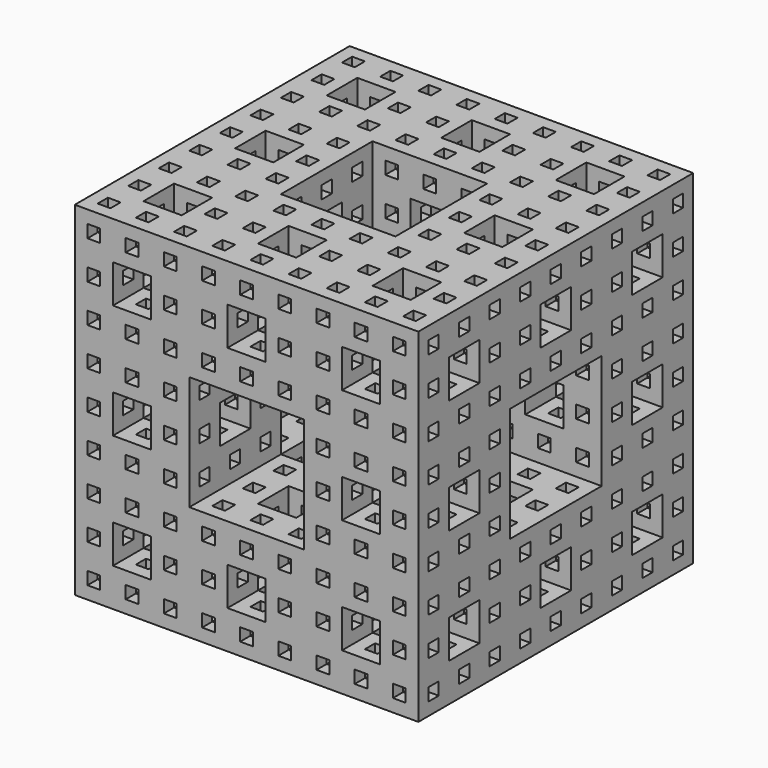
from build123d import *

# Parameters (mm, degrees)
F0_W      = 202.5
F0_H      = 202.5
F1_DEPTH  = 405
F2_W      = 135
F2_H      = 135
F3_DEPTH  = 1000
F4_W      = 45
F4_H      = 45
F5_DEPTH  = 1000
F6_W      = 15
F6_H      = 15
F7_DEPTH  = 1000
F8_W      = 135
F8_H      = 135
F9_DEPTH  = 1000
F10_W     = 45
F10_H     = 45
F11_DEPTH = 1000
F12_W     = 15
F12_H     = 15
F13_DEPTH = 1000
F15_W     = 135
F15_H     = 135
F16_DEPTH = 1000
F17_W     = 45
F17_H     = 45
F18_DEPTH = 1000
F19_W     = 15
F19_H     = 15
F20_DEPTH = 1000


with BuildPart() as f1:
    # F0 (on Top) → F1 (new body)
    with BuildSketch(Plane.XY):
        with Locations((-101.25, 0)):
            Rectangle(F0_W, F0_H)
    extrude(amount=F1_DEPTH)

    # F2 (on face) → F3 (cut)
    with BuildSketch(Plane(origin=(-202.5, 0, 0), x_dir=(0, -1, 0), z_dir=(-1, 0, 0))):
        with Locations((101.25, 202.5)):
            Rectangle(F2_W, F2_H)
    extrude(amount=-F3_DEPTH, mode=Mode.SUBTRACT)

    # F4 (on face) → F5 (cut)
    with BuildSketch(Plane(origin=(-202.5, 0, 0), x_dir=(0, -1, 0), z_dir=(-1, 0, 0))):
        with Locations((-33.75, 337.5)):
            Rectangle(F4_W, F4_H)
        with Locations((101.25, 337.5)):
            Rectangle(F4_W, F4_H)
        with Locations((-33.75, 202.5)):
            Rectangle(F4_W, F4_H)
        with Locations((-33.75, 67.5)):
            Rectangle(F4_W, F4_H)
        with Locations((101.25, 67.5)):
            Rectangle(F4_W, F4_H)
    extrude(amount=-F5_DEPTH, mode=Mode.SUBTRACT)

    # F6 (on face) → F7 (cut)
    with BuildSketch(Plane(origin=(-202.5, 0, 0), x_dir=(0, -1, 0), z_dir=(-1, 0, 0))):
        with Locations((-78.75, 382.5)):
            Rectangle(F6_W, F6_H)
        with Locations((-33.75, 382.5)):
            Rectangle(F6_W, F6_H)
        with Locations((11.25, 382.5)):
            Rectangle(F6_W, F6_H)
        with Locations((56.25, 382.5)):
            Rectangle(F6_W, F6_H)
        with Locations((101.25, 382.5)):
            Rectangle(F6_W, F6_H)
        with Locations((-78.75, 337.5)):
            Rectangle(F6_W, F6_H)
        with Locations((-78.75, 292.5)):
            Rectangle(F6_W, F6_H)
        with Locations((-78.75, 247.5)):
            Rectangle(F6_W, F6_H)
        with Locations((-78.75, 202.5)):
            Rectangle(F6_W, F6_H)
        with Locations((-78.75, 157.5)):
            Rectangle(F6_W, F6_H)
        with Locations((-78.75, 112.5)):
            Rectangle(F6_W, F6_H)
        with Locations((-78.75, 67.5)):
            Rectangle(F6_W, F6_H)
        with Locations((-78.75, 22.5)):
            Rectangle(F6_W, F6_H)
        with Locations((-33.75, 22.5)):
            Rectangle(F6_W, F6_H)
        with Locations((11.25, 22.5)):
            Rectangle(F6_W, F6_H)
        with Locations((56.25, 22.5)):
            Rectangle(F6_W, F6_H)
        with Locations((101.25, 22.5)):
            Rectangle(F6_W, F6_H)
        with Locations((-33.75, 292.5)):
            Rectangle(F6_W, F6_H)
        with Locations((-33.75, 247.5)):
            Rectangle(F6_W, F6_H)
        with Locations((11.25, 337.5)):
            Rectangle(F6_W, F6_H)
        with Locations((56.25, 337.5)):
            Rectangle(F6_W, F6_H)
        with Locations((-33.75, 157.5)):
            Rectangle(F6_W, F6_H)
        with Locations((-33.75, 112.5)):
            Rectangle(F6_W, F6_H)
        with Locations((11.25, 67.5)):
            Rectangle(F6_W, F6_H)
        with Locations((56.25, 67.5)):
            Rectangle(F6_W, F6_H)
        with Locations((11.25, 292.5)):
            Rectangle(F6_W, F6_H)
        with Locations((56.25, 292.5)):
            Rectangle(F6_W, F6_H)
        with Locations((11.25, 247.5)):
            Rectangle(F6_W, F6_H)
        with Locations((11.25, 202.5)):
            Rectangle(F6_W, F6_H)
        with Locations((11.25, 157.5)):
            Rectangle(F6_W, F6_H)
        with Locations((11.25, 112.5)):
            Rectangle(F6_W, F6_H)
        with Locations((56.25, 112.5)):
            Rectangle(F6_W, F6_H)
        with Locations((101.25, 112.5)):
            Rectangle(F6_W, F6_H)
        with Locations((101.25, 292.5)):
            Rectangle(F6_W, F6_H)
    extrude(amount=-F7_DEPTH, mode=Mode.SUBTRACT)

    # F8 (on face) → F9 (cut)
    with BuildSketch(Plane(origin=(0, 101.25, 0), x_dir=(-1, 0, 0), z_dir=(0, 1, 0))):
        with Locations((0, 202.5)):
            Rectangle(F8_W, F8_H)
    extrude(amount=-F9_DEPTH, mode=Mode.SUBTRACT)

    # F10 (on face) → F11 (cut)
    with BuildSketch(Plane(origin=(0, 101.25, 0), x_dir=(-1, 0, 0), z_dir=(0, 1, 0))):
        with Locations((0, 337.5)):
            Rectangle(F10_W, F10_H)
        with Locations((135, 337.5)):
            Rectangle(F10_W, F10_H)
        with Locations((135, 202.5)):
            Rectangle(F10_W, F10_H)
        with Locations((135, 67.5)):
            Rectangle(F10_W, F10_H)
        with Locations((0, 67.5)):
            Rectangle(F10_W, F10_H)
    extrude(amount=-F11_DEPTH, mode=Mode.SUBTRACT)

    # F12 (on face) → F13 (cut)
    with BuildSketch(Plane(origin=(0, 101.25, 0), x_dir=(-1, 0, 0), z_dir=(0, 1, 0))):
        with Locations((0, 382.5)):
            Rectangle(F12_W, F12_H)
        with Locations((45, 382.5)):
            Rectangle(F12_W, F12_H)
        with Locations((90, 382.5)):
            Rectangle(F12_W, F12_H)
        with Locations((135, 382.5)):
            Rectangle(F12_W, F12_H)
        with Locations((180, 382.5)):
            Rectangle(F12_W, F12_H)
        with Locations((180, 337.5)):
            Rectangle(F12_W, F12_H)
        with Locations((180, 202.5)):
            Rectangle(F12_W, F12_H)
        with Locations((180, 67.5)):
            Rectangle(F12_W, F12_H)
        with Locations((180, 22.5)):
            Rectangle(F12_W, F12_H)
        with Locations((180, 292.5)):
            Rectangle(F12_W, F12_H)
        with Locations((180, 247.5)):
            Rectangle(F12_W, F12_H)
        with Locations((180, 157.5)):
            Rectangle(F12_W, F12_H)
        with Locations((180, 112.5)):
            Rectangle(F12_W, F12_H)
        with Locations((135, 292.5)):
            Rectangle(F12_W, F12_H)
        with Locations((135, 247.5)):
            Rectangle(F12_W, F12_H)
        with Locations((135, 157.5)):
            Rectangle(F12_W, F12_H)
        with Locations((135, 112.5)):
            Rectangle(F12_W, F12_H)
        with Locations((135, 22.5)):
            Rectangle(F12_W, F12_H)
        with Locations((90, 337.5)):
            Rectangle(F12_W, F12_H)
        with Locations((45, 337.5)):
            Rectangle(F12_W, F12_H)
        with Locations((90, 292.5)):
            Rectangle(F12_W, F12_H)
        with Locations((45, 292.5)):
            Rectangle(F12_W, F12_H)
        with Locations((0, 292.5)):
            Rectangle(F12_W, F12_H)
        with Locations((90, 247.5)):
            Rectangle(F12_W, F12_H)
        with Locations((90, 202.5)):
            Rectangle(F12_W, F12_H)
        with Locations((90, 157.5)):
            Rectangle(F12_W, F12_H)
        with Locations((90, 112.5)):
            Rectangle(F12_W, F12_H)
        with Locations((90, 67.5)):
            Rectangle(F12_W, F12_H)
        with Locations((90, 22.5)):
            Rectangle(F12_W, F12_H)
        with Locations((0, 112.5)):
            Rectangle(F12_W, F12_H)
        with Locations((45, 112.5)):
            Rectangle(F12_W, F12_H)
        with Locations((45, 67.5)):
            Rectangle(F12_W, F12_H)
        with Locations((0, 22.5)):
            Rectangle(F12_W, F12_H)
        with Locations((45, 22.5)):
            Rectangle(F12_W, F12_H)
    extrude(amount=-F13_DEPTH, mode=Mode.SUBTRACT)

    # F14: F1 across face


with BuildPart() as f1_1:
    add(f1.part)
    add(f1.part.mirror(Plane(origin=(0, 0, 127.5), x_dir=(0, 1, 0), z_dir=(1, 0, 0))))

    # F15 (on face) → F16 (cut)
    with BuildSketch(Plane.XY.offset(405)):
        with Locations((0, -101.25)):
            Rectangle(F15_W, F15_H)
    extrude(amount=-F16_DEPTH, mode=Mode.SUBTRACT)

    # F17 (on face) → F18 (cut)
    with BuildSketch(Plane.XY.offset(405)):
        with Locations((-135, -101.25)):
            Rectangle(F17_W, F17_H)
        with Locations((135, -101.25)):
            Rectangle(F17_W, F17_H)
        with Locations((0, 33.75)):
            Rectangle(F17_W, F17_H)
        with Locations((-135, 33.75)):
            Rectangle(F17_W, F17_H)
        with Locations((135, 33.75)):
            Rectangle(F17_W, F17_H)
    extrude(amount=-F18_DEPTH, mode=Mode.SUBTRACT)

    # F19 (on face) → F20 (cut)
    with BuildSketch(Plane.XY.offset(405)):
        with Locations((-180, -101.25)):
            Rectangle(F19_W, F19_H)
        with Locations((-180, 33.75)):
            Rectangle(F19_W, F19_H)
        with Locations((-180, 78.75)):
            Rectangle(F19_W, F19_H)
        with Locations((-180, -11.25)):
            Rectangle(F19_W, F19_H)
        with Locations((-180, -56.25)):
            Rectangle(F19_W, F19_H)
        with Locations((180, 78.75)):
            Rectangle(F19_W, F19_H)
        with Locations((180, 33.75)):
            Rectangle(F19_W, F19_H)
        with Locations((180, -11.25)):
            Rectangle(F19_W, F19_H)
        with Locations((180, -56.25)):
            Rectangle(F19_W, F19_H)
        with Locations((180, -101.25)):
            Rectangle(F19_W, F19_H)
        with Locations((135, 78.75)):
            Rectangle(F19_W, F19_H)
        with Locations((90, 78.75)):
            Rectangle(F19_W, F19_H)
        with Locations((45, 78.75)):
            Rectangle(F19_W, F19_H)
        with Locations((0, 78.75)):
            Rectangle(F19_W, F19_H)
        with Locations((-45, 78.75)):
            Rectangle(F19_W, F19_H)
        with Locations((-90, 78.75)):
            Rectangle(F19_W, F19_H)
        with Locations((-135, 78.75)):
            Rectangle(F19_W, F19_H)
        with Locations((-90, 33.75)):
            Rectangle(F19_W, F19_H)
        with Locations((-45, 33.75)):
            Rectangle(F19_W, F19_H)
        with Locations((45, 33.75)):
            Rectangle(F19_W, F19_H)
        with Locations((90, 33.75)):
            Rectangle(F19_W, F19_H)
        with Locations((-135, -11.25)):
            Rectangle(F19_W, F19_H)
        with Locations((-90, -11.25)):
            Rectangle(F19_W, F19_H)
        with Locations((-45, -11.25)):
            Rectangle(F19_W, F19_H)
        with Locations((0, -11.25)):
            Rectangle(F19_W, F19_H)
        with Locations((45, -11.25)):
            Rectangle(F19_W, F19_H)
        with Locations((90, -11.25)):
            Rectangle(F19_W, F19_H)
        with Locations((135, -11.25)):
            Rectangle(F19_W, F19_H)
        with Locations((90, -56.25)):
            Rectangle(F19_W, F19_H)
        with Locations((135, -56.25)):
            Rectangle(F19_W, F19_H)
        with Locations((90, -101.25)):
            Rectangle(F19_W, F19_H)
        with Locations((-135, -56.25)):
            Rectangle(F19_W, F19_H)
        with Locations((-90, -56.25)):
            Rectangle(F19_W, F19_H)
        with Locations((-90, -101.25)):
            Rectangle(F19_W, F19_H)
    extrude(amount=-F20_DEPTH, mode=Mode.SUBTRACT)

    # F21: F1 across face


with BuildPart() as f1_2:
    add(f1_1.part)
    add(f1_1.part.mirror(Plane(origin=(-105, -101.25, 127.5), x_dir=(1, 0, 0), z_dir=(0, -1, 0))))


solid = f1_2.part
